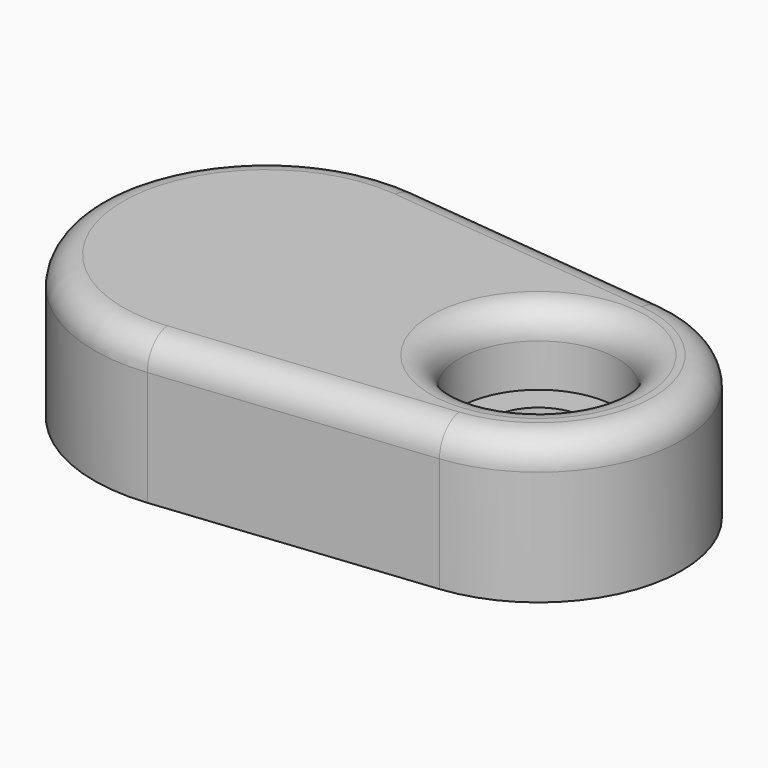
from build123d import *

# Parameters (mm, degrees)
CYLINDER_R     = 2.75
CYLINDER_DEPTH = 10
SKETCH_R       = 1.7
PAD_DEPTH      = 5
FILLET_R       = 1


with BuildPart() as cylinder:
    # Cylinder → Cylinder (new body)
    with BuildSketch(Plane.XY.offset(2.5)):
        Circle(CYLINDER_R)
    extrude(amount=CYLINDER_DEPTH)


with BuildPart() as fillet_body:
    # Sketch → Pad (new body)
    with BuildSketch(Plane.XY):
        with BuildLine():
            ThreePointArc((0.526316, -4.972222), (5, 0), (0.526316, 4.972222))
            Line((-8.868441, 5.966669), (0.526316, 4.972222))
            ThreePointArc((-8.868441, 5.966669), (-15.5, -1e-05), (-8.868421, -5.966666))
            Line((0.526316, -4.972222), (-8.868421, -5.966666))
        make_face()
        Circle(SKETCH_R, mode=Mode.SUBTRACT)
    extrude(amount=PAD_DEPTH)

    # Cut: cut Cylinder
    add(cylinder.part, mode=Mode.SUBTRACT)

    # Fillet
    fillet_edges = [fillet_body.edges().sort_by_distance(p)[0] for p in [
        (5, 0, 5),
        (-4.171053, -5.469444, 5),
        (-4.171063, 5.469445, 5),
        (-15.5, -1e-05, 5),
        (-2.75, 0, 5),
    ]]
    fillet(fillet_edges, radius=FILLET_R)


solid = fillet_body.part
